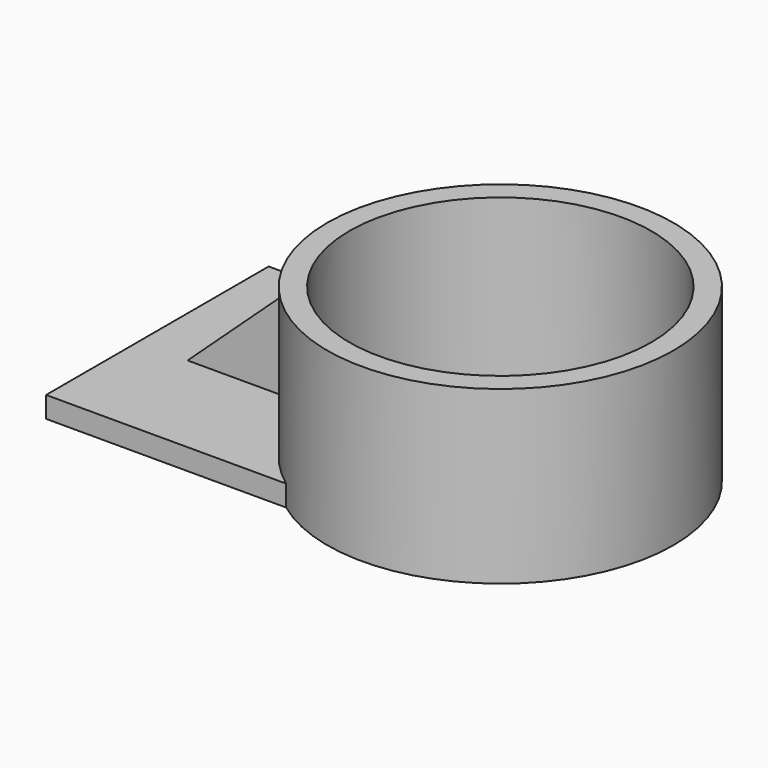
from build123d import *

# Parameters (mm, degrees)
F0_W     = 131.865278
F0_H     = 127.425716
F1_DEPTH = 9.652
F2_R     = 79.271214
F3_DEPTH = 78.486
F4_R     = 69.127497
F5_DEPTH = 172.974
F7_DEPTH = 51.562
F9_DEPTH = 25.4


with BuildPart() as f1:
    # F0 (on Top) → F1 (new body)
    with BuildSketch(Plane.XY):
        Rectangle(F0_W, F0_H)
    extrude(amount=F1_DEPTH)

    # F2 (on face) → F3 (join)
    with BuildSketch(Plane(origin=(0, 0, 0), x_dir=(1, 0, 0), z_dir=(0, 0, -1))):
        with Locations((91.141589, 0)):
            Circle(F2_R)
    extrude(amount=-F3_DEPTH)

    # F4 (on face) → F5 (cut)
    with BuildSketch(Plane.XY.offset(78.486)):
        with Locations((91.141589, 0)):
            Circle(F4_R)
    extrude(amount=-F5_DEPTH, mode=Mode.SUBTRACT)

    # F6 (on face) → F7 (join)
    with BuildSketch(Plane.XY.offset(9.652)):
        with BuildLine():
            Line((-43.096259, 10.152509), (-43.096259, -11.246967))
            Line((-43.096259, -11.246967), (12.672289, -11.246967))
            ThreePointArc((12.672289, -11.246967), (11.872299, -0.552283), (12.523195, 10.152509))
            Line((12.523195, 10.152509), (-43.096259, 10.152509))
        make_face()
    extrude(amount=F7_DEPTH)

    # F8 (on face) → F9 (cut)
    with BuildSketch(Plane.XZ.offset(11.246967)):
        Polygon((-43.096259, 61.214), (-43.096259, 9.652), (12.672289, 61.214), align=None)
    extrude(amount=-F9_DEPTH, mode=Mode.SUBTRACT)


solid = f1.part
